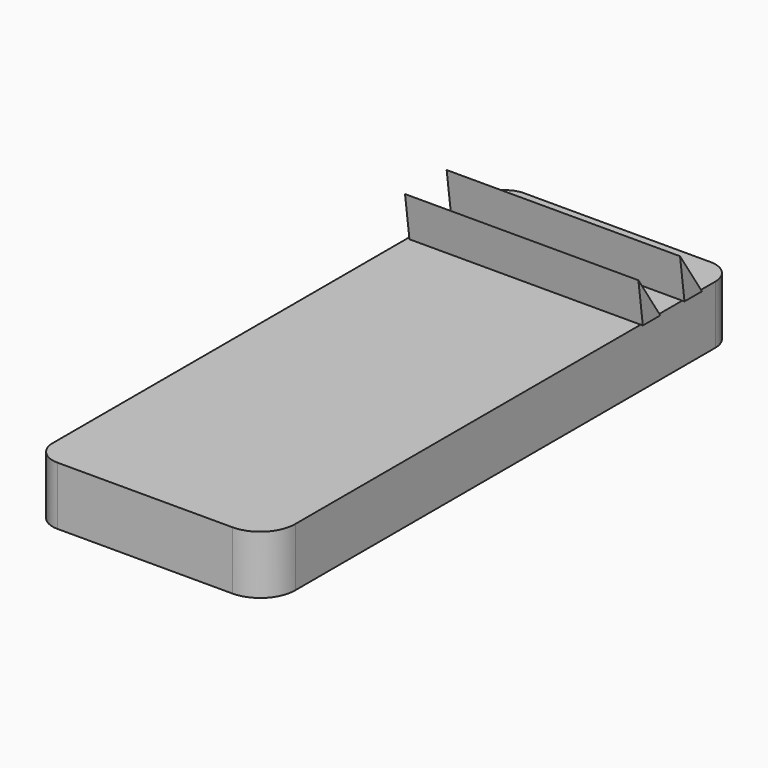
from build123d import *

# Parameters (mm, degrees)
F2_DEPTH = 25
F3_DEPTH = 50


with BuildPart() as f2:
    # F1 (on Top) → F2 (new body)
    with BuildSketch(Plane.XY):
        with BuildLine():
            Line((39.055, 198.689039), (-40.945, 198.689039))
            ThreePointArc((-40.945, 198.689039), (-48.016068, 195.760106), (-50.945, 188.689039))
            Line((-50.945, 188.689039), (-50.945, -41.310961))
            ThreePointArc((-50.945, -41.310961), (-48.016068, -48.382029), (-40.945, -51.310961))
            Line((-40.945, -51.310961), (34.055, -51.310961))
            ThreePointArc((34.055, -51.310961), (44.661602, -46.917563), (49.055, -36.310961))
            Line((49.055, -36.310961), (49.055, 188.689039))
            ThreePointArc((49.055, 188.689039), (46.126068, 195.760106), (39.055, 198.689039))
        make_face()
    extrude(amount=F2_DEPTH)

    # F0 (on Right) → F3 (join, symmetric)
    with BuildSketch(Plane.YZ):
        Polygon((170.938358, 25), (180.296594, 25), (168.565348, 43.029062), align=None)
        Polygon((148.637036, 25), (157.995272, 25), (146.264026, 43.029062), align=None)
    extrude(amount=F3_DEPTH, both=True)


solid = f2.part
